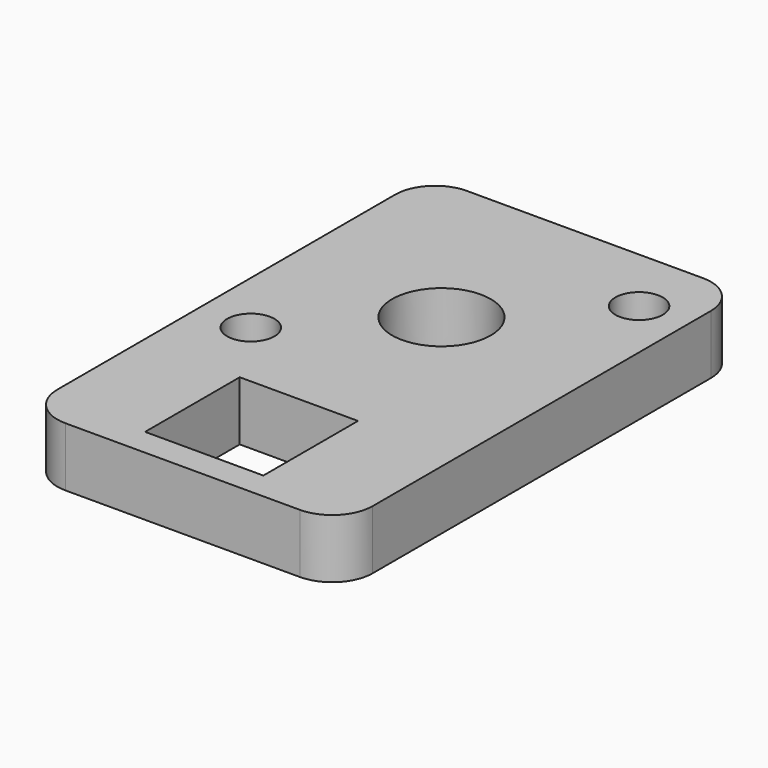
from build123d import *

# Parameters (mm, degrees)
SKETCH_R     = 25
SKETCH_R_2   = 12
SKETCH_W     = 60
SKETCH_H     = 60
PAD_DEPTH    = 30
PAD001_DEPTH = 30


with BuildPart() as part:
    # Sketch → Pad (new body)
    with BuildSketch(Plane.XY):
        with BuildLine():
            Line((-59.342312, -134.143673), (59.515305, -134.143673))
            ThreePointArc((59.515305, -134.143673), (74.047401, -128.124281), (80.066793, -113.592185))
            Line((80.066793, -113.592185), (80.066793, 100.872214))
            ThreePointArc((80.066793, 100.872214), (74.213582, 115.003116), (60.08268, 120.856327))
            Line((60.08268, 120.856327), (-59.689381, 120.856327))
            ThreePointArc((-59.689381, 120.856327), (-74.003928, 114.927048), (-79.933207, 100.612501))
            Line((-79.933207, 100.612501), (-79.933207, -113.552778))
            ThreePointArc((-79.933207, -113.552778), (-73.902274, -128.112739), (-59.342312, -134.143673))
        make_face()
        with Locations((0.120778, 29.919195)):
            Circle(SKETCH_R, mode=Mode.SUBTRACT)
        with Locations((-53.325886, -24.171413)):
            Circle(SKETCH_R_2, mode=Mode.SUBTRACT)
        with Locations((55.271923, 86.295181)):
            Circle(SKETCH_R_2, mode=Mode.SUBTRACT)
        with Locations((-0.129082, -90.192567)):
            Rectangle(SKETCH_W, SKETCH_H, mode=Mode.SUBTRACT)
    extrude(amount=PAD_DEPTH)

    # Sketch → Pad001 (join)
    with BuildSketch(Plane.XY):
        with BuildLine():
            Line((-59.342312, -134.143673), (59.515305, -134.143673))
            ThreePointArc((59.515305, -134.143673), (74.047401, -128.124281), (80.066793, -113.592185))
            Line((80.066793, -113.592185), (80.066793, 100.872214))
            ThreePointArc((80.066793, 100.872214), (74.213582, 115.003116), (60.08268, 120.856327))
            Line((60.08268, 120.856327), (-59.689381, 120.856327))
            ThreePointArc((-59.689381, 120.856327), (-74.003928, 114.927048), (-79.933207, 100.612501))
            Line((-79.933207, 100.612501), (-79.933207, -113.552778))
            ThreePointArc((-79.933207, -113.552778), (-73.902274, -128.112739), (-59.342312, -134.143673))
        make_face()
        with Locations((0.120778, 29.919195)):
            Circle(SKETCH_R, mode=Mode.SUBTRACT)
        with Locations((-53.325886, -24.171413)):
            Circle(SKETCH_R_2, mode=Mode.SUBTRACT)
        with Locations((55.271923, 86.295181)):
            Circle(SKETCH_R_2, mode=Mode.SUBTRACT)
        with Locations((-0.129082, -90.192567)):
            Rectangle(SKETCH_W, SKETCH_H, mode=Mode.SUBTRACT)
    extrude(amount=PAD001_DEPTH)


solid = part.part
